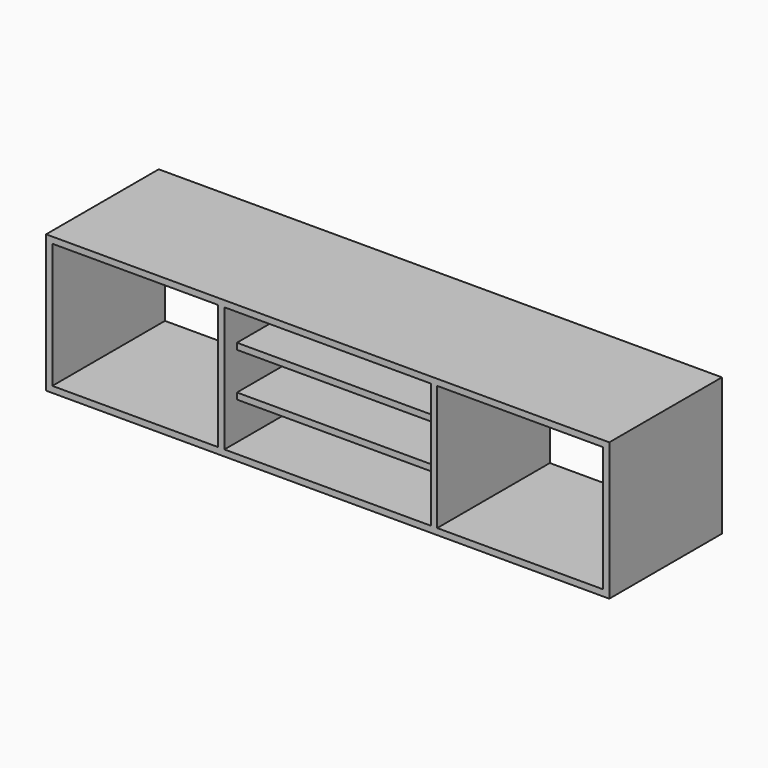
from build123d import *

# Parameters (mm, degrees)
F0_W     = 1800
F0_H     = 450
F1_DEPTH = 20
F2_W     = 20
F2_H     = 450
F3_DEPTH = 400
F4_W     = 1780
F4_H     = 450
F4_W_2   = 20
F5_DEPTH = 20
F6_W     = 400
F6_H     = 20
F7_DEPTH = 660


with BuildPart() as f1:
    # F0 (on Top) → F1 (new body)
    with BuildSketch(Plane.XY):
        Rectangle(F0_W, F0_H)
    extrude(amount=F1_DEPTH)

    # F2 (on face) → F3 (join)
    with BuildSketch(Plane.XY.offset(20)):
        with Locations((-890, 0)):
            Rectangle(F2_W, F2_H)
        with Locations((890, 0)):
            Rectangle(F2_W, F2_H)
        with Locations((340, 0)):
            Rectangle(F2_W, F2_H)
        with Locations((-340, 0)):
            Rectangle(F2_W, F2_H)
    extrude(amount=F3_DEPTH)

    # F4 (on face) → F5 (join)
    with BuildSketch(Plane.XY.offset(420)):
        with Locations((-10, 0)):
            Rectangle(F4_W, F4_H)
        with Locations((890, 0)):
            Rectangle(F4_W_2, F4_H)
    extrude(amount=F5_DEPTH)

    # F6 (on face) → F7 (join)
    with BuildSketch(Plane.YZ.offset(-330)):
        with Locations((25, 150)):
            Rectangle(F6_W, F6_H)
        with Locations((25, 290)):
            Rectangle(F6_W, F6_H)
    extrude(amount=F7_DEPTH)


solid = f1.part
